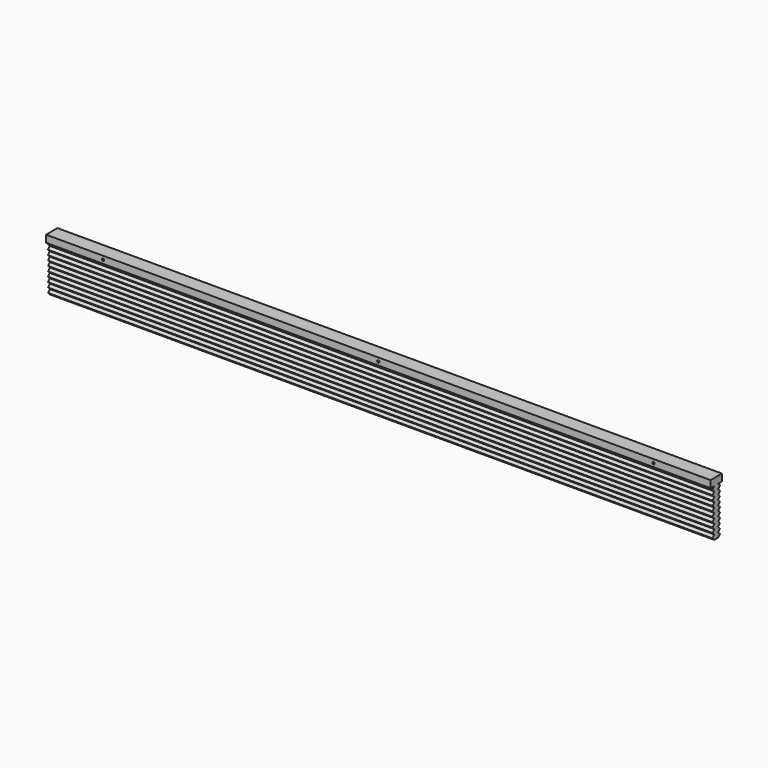
from build123d import *

# Parameters (mm, degrees)
F0_W     = 38.1
F0_H     = 19.05
F1_DEPTH = 889
F3_DEPTH = 889
F5_D     = 6.35


with BuildPart() as f1:
    # F0 (on Right) → F1 (new body, symmetric)
    with BuildSketch(Plane.YZ):
        Rectangle(F0_W, F0_H)
    extrude(amount=F1_DEPTH, both=True)

    # F2 (on Right) → F3 (join, symmetric)
    with BuildSketch(Plane.YZ):
        Polygon((0, -9.525), (-6.35, -9.525), (-12.7, -15.875), (-6.35, -22.225), (0, -22.225), (6.35, -22.225), (12.7, -15.875), (6.35, -9.525), align=None)
        Polygon((0, -22.225), (-6.35, -22.225), (-12.7, -28.575), (-6.35, -34.925), (0, -34.925), (6.35, -34.925), (12.7, -28.575), (6.35, -22.225), align=None)
        Polygon((0, -34.925), (-6.35, -34.925), (-12.7, -41.275), (-6.35, -47.625), (0, -47.625), (6.35, -47.625), (12.7, -41.275), (6.35, -34.925), align=None)
        Polygon((0, -47.625), (-6.35, -47.625), (-12.7, -53.975), (-6.35, -60.325), (0, -60.325), (6.35, -60.325), (12.7, -53.975), (6.35, -47.625), align=None)
        Polygon((0, -60.325), (-6.35, -60.325), (-12.7, -66.675), (-6.35, -73.025), (0, -73.025), (6.35, -73.025), (12.7, -66.675), (6.35, -60.325), align=None)
        Polygon((0, -73.025), (-6.35, -73.025), (-12.7, -79.375), (-6.35, -85.725), (0, -85.725), (6.35, -85.725), (12.7, -79.375), (6.35, -73.025), align=None)
        Polygon((0, -85.725), (-6.35, -85.725), (-12.7, -92.075), (-6.35, -98.425), (0, -98.425), (6.35, -98.425), (12.7, -92.075), (6.35, -85.725), align=None)
        Polygon((0, -98.425), (-6.35, -98.425), (-12.7, -104.775), (-6.35, -111.125), (0, -111.125), (6.35, -111.125), (12.7, -104.775), (6.35, -98.425), align=None)
        Polygon((0, -111.125), (-6.35, -111.125), (-12.7, -117.475), (-6.35, -123.825), (0, -123.825), (6.35, -123.825), (12.7, -117.475), (6.35, -111.125), align=None)
        Polygon((0, -123.825), (-6.35, -123.825), (-12.7, -130.175), (-6.35, -136.525), (0, -136.525), (6.35, -136.525), (12.7, -130.175), (6.35, -123.825), align=None)
    extrude(amount=F3_DEPTH, both=True)

    # F5 (through all)
    with Locations(Plane.XZ.offset(19.05)):
        with Locations((0, 0), (736.6, 0), (-736.6, 0)):
            Hole(F5_D / 2)


solid = f1.part
